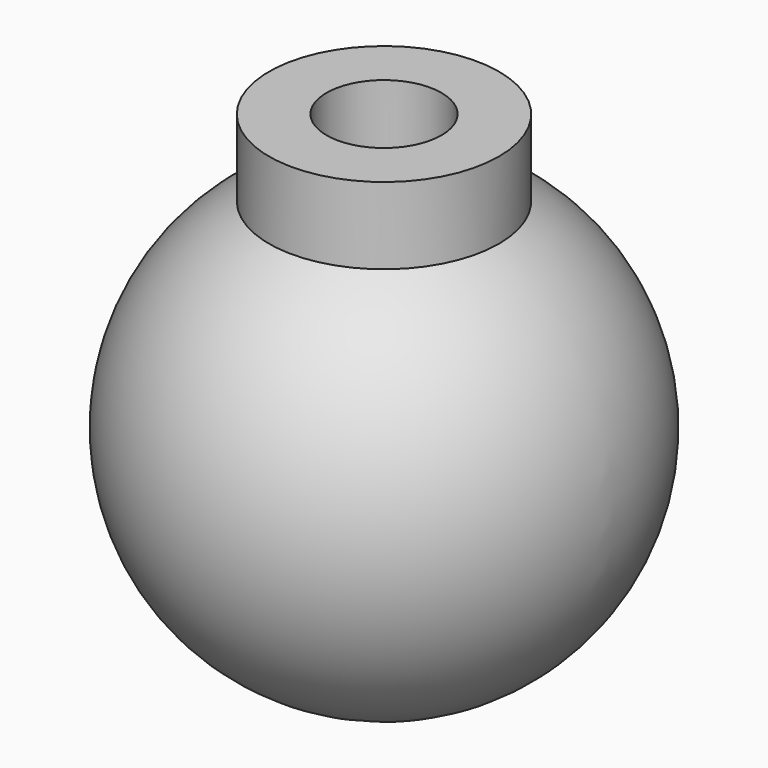
from build123d import *

# Parameters (mm, degrees)
F3_DEPTH = 6
F4_R     = 5
F5_DEPTH = 16
F6_R     = 2.5
F7_DEPTH = 25


with BuildPart() as f1:
    # F0 (on Front) → F1 (revolve)
    with BuildSketch(Plane.XZ):
        with BuildLine():
            ThreePointArc((0, 0), (10, 10), (0, 20))
            Line((0, 20), (0, 0))
        make_face()
    revolve(axis=Axis((0, 0, 10), (0, 0, -1)))

    # F2 (on Top) → F3 (cut)
    with BuildSketch(Plane.XY):
        Polygon((-2.598076, -4.5), (2.598076, -4.5), (5.196152, 0), (2.598076, 4.5), (-2.598076, 4.5), (-5.196152, 0), align=None)
    extrude(amount=F3_DEPTH, mode=Mode.SUBTRACT)

    # F4 (on face) → F5 (join)
    with BuildSketch(Plane(origin=(0, 0, 6), x_dir=(1, 0, 0), z_dir=(0, 0, -1))):
        Circle(F4_R)
    extrude(amount=-F5_DEPTH)

    # F6 (on face) → F7 (cut)
    with BuildSketch(Plane(origin=(0, 0, 6), x_dir=(1, 0, 0), z_dir=(0, 0, -1))):
        Circle(F6_R)
    extrude(amount=-F7_DEPTH, mode=Mode.SUBTRACT)


solid = f1.part
